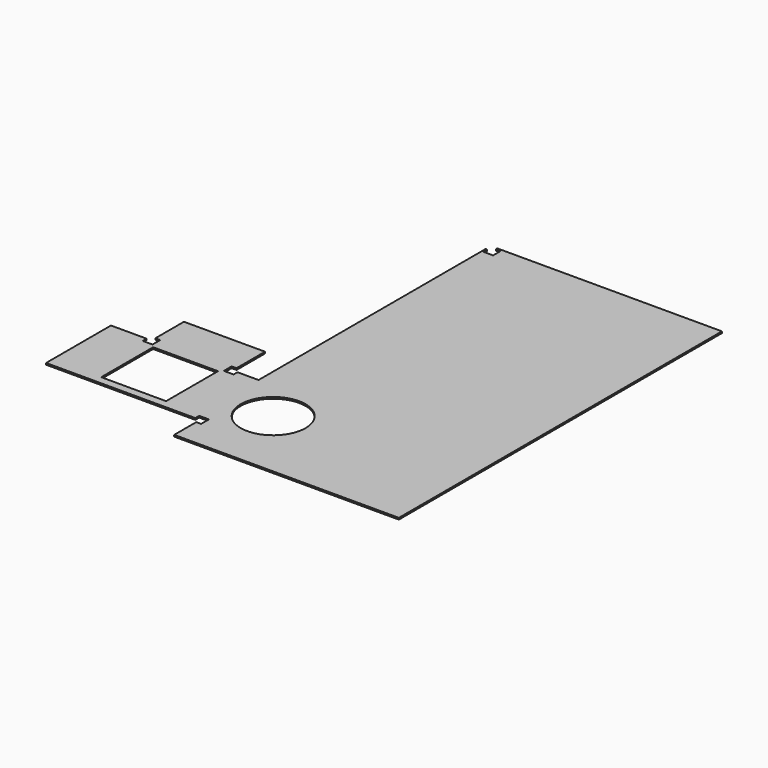
from build123d import *

# Parameters (mm, degrees)
F0_W     = 5
F0_H     = 50
F0_W_2   = 138.5
F0_H_2   = 20
F0_W_3   = 50
F0_H_3   = 5
F0_H_4   = 4
F0_W_4   = 20
F0_W_5   = 4
F0_H_5   = 175
F0_W_6   = 40
F0_H_6   = 40
F0_R     = 20
F1_DEPTH = 1
F0_W_7   = 128.5
F0_H_7   = 147
F2_DEPTH = 1
F3_W     = 6
F3_H     = 6
F4_DEPTH = 25


with BuildPart() as f1:
    # F0 (on Top) → F1 (new body)
    with BuildSketch(Plane.XY):
        with Locations((-231, -87.5)):
            Rectangle(F0_W, F0_H)
        with Locations((-69.25, -122.5)):
            Rectangle(F0_W_2, F0_H_2)
        with Locations((-183.5, -40)):
            Rectangle(F0_W_3, F0_H_3)
        with Locations((-69.25, 114.5)):
            Rectangle(F0_W_2, F0_H_4)
        with Locations((-218.5, -87.5)):
            Rectangle(F0_W_4, F0_H)
        with Locations((-183.5, -52.5)):
            Rectangle(F0_W_3, F0_H_2)
        with Locations((-140.5, 25)):
            Rectangle(F0_W_5, F0_H_5)
        Polygon((-138.5, -112.5), (-138.5, -62.5), (-142.5, -62.5), (-158.5, -62.5), (-158.5, -112.5), align=None)
        with Locations((-183.5, -87.5)):
            Rectangle(F0_W_3, F0_H)
        with Locations((-183.5, -87.5)):
            Rectangle(F0_W_6, F0_H_6, mode=Mode.SUBTRACT)
        Polygon((0, 102.5), (0, 112.5), (-138.5, 112.5), (-138.5, -62.5), (-138.5, -112.5), (0, -112.5), (0, -44.5), (-128.5, -44.5), (-128.5, 102.5), align=None)
        with Locations((-113.5, -87.5)):
            Circle(F0_R, mode=Mode.SUBTRACT)
    extrude(amount=F1_DEPTH)

    # F0 (on Top) → F2 (join)
    with BuildSketch(Plane.XY):
        Polygon((0, 102.5), (0, 112.5), (-138.5, 112.5), (-138.5, -62.5), (-138.5, -112.5), (0, -112.5), (0, -44.5), (-128.5, -44.5), (-128.5, 102.5), align=None)
        with Locations((-113.5, -87.5)):
            Circle(F0_R, mode=Mode.SUBTRACT)
        with Locations((-69.25, 114.5)):
            Rectangle(F0_W_2, F0_H_4)
        with Locations((-140.5, 25)):
            Rectangle(F0_W_5, F0_H_5)
        with Locations((-64.25, 29)):
            Rectangle(F0_W_7, F0_H_7)
        Polygon((-138.5, -112.5), (-138.5, -62.5), (-142.5, -62.5), (-158.5, -62.5), (-158.5, -112.5), align=None)
        with Locations((-69.25, -122.5)):
            Rectangle(F0_W_2, F0_H_2)
        with Locations((-183.5, -87.5)):
            Rectangle(F0_W_3, F0_H)
        with Locations((-183.5, -87.5)):
            Rectangle(F0_W_6, F0_H_6, mode=Mode.SUBTRACT)
        with Locations((-183.5, -52.5)):
            Rectangle(F0_W_3, F0_H_2)
        with Locations((-218.5, -87.5)):
            Rectangle(F0_W_4, F0_H)
        with Locations((-183.5, -40)):
            Rectangle(F0_W_3, F0_H_3)
        with Locations((-231, -87.5)):
            Rectangle(F0_W, F0_H)
    extrude(amount=F2_DEPTH)

    # F3 (on face) → F4 (cut)
    with BuildSketch(Plane.XY.offset(1)):
        with Locations((-138.5, -112.5)):
            Rectangle(F3_W, F3_H)
        with Locations((-158.5, -62.5)):
            Rectangle(F3_W, F3_H)
        with Locations((-208.5, -62.5)):
            Rectangle(F3_W, F3_H)
        with Locations((-138.5, 112.5)):
            Rectangle(F3_W, F3_H)
    extrude(amount=-F4_DEPTH, mode=Mode.SUBTRACT)


solid = f1.part
